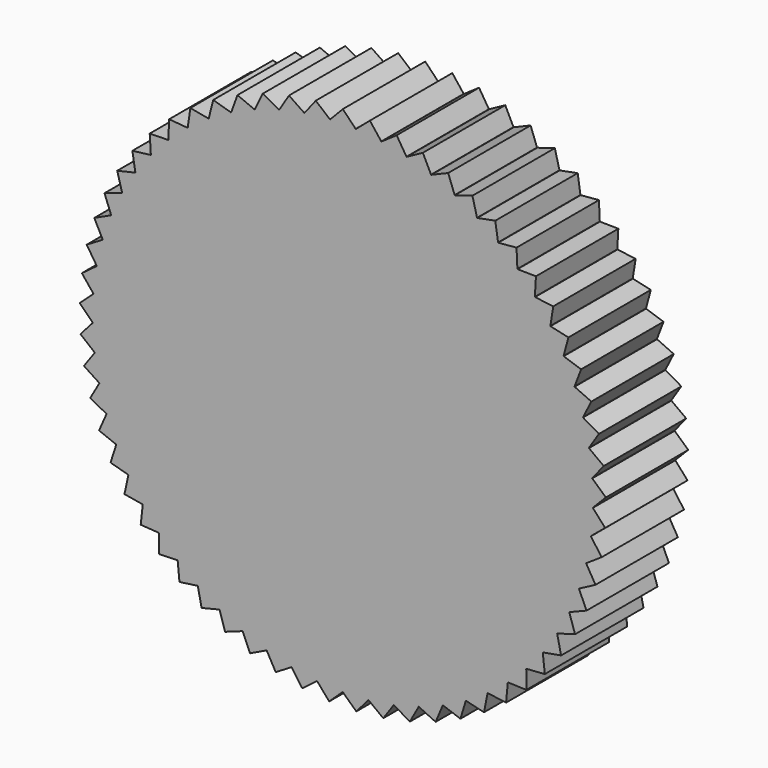
from build123d import *

# Parameters (mm, degrees)
F1_DEPTH = 25.4


with BuildPart() as f1:
    # F0 (on Front) → F1 (new body)
    with BuildSketch(Plane.XZ):
        with BuildLine():
            ThreePointArc((61.665615, -1.639689), (61.666268, -1.614942), (61.666911, -1.590194))
            ThreePointArc((61.666911, -1.590194), (61.682285, -0.795163), (61.68741, 0))
            ThreePointArc((61.68741, 0), (61.642385, 2.356481), (61.507374, 4.709521))
            ThreePointArc((61.507374, 4.709521), (61.505479, 4.734205), (61.503574, 4.758888))
            ThreePointArc((61.503574, 4.758888), (61.180217, 7.894153), (60.697139, 11.00881))
            ThreePointArc((60.697139, 11.00881), (60.692716, 11.033168), (60.688284, 11.057524))
            ThreePointArc((60.688284, 11.057524), (60.044269, 14.142924), (59.2435, 17.191402))
            ThreePointArc((59.2435, 17.191402), (59.236596, 17.215176), (59.229682, 17.238947))
            ThreePointArc((59.229682, 17.238947), (58.271838, 20.241777), (57.161865, 23.191761))
            ThreePointArc((57.161865, 23.191761), (57.152553, 23.2147), (57.143232, 23.237634))
            ThreePointArc((57.143232, 23.237634), (55.88171, 26.126061), (54.4743, 28.946282))
            ThreePointArc((54.4743, 28.946282), (54.462679, 28.968141), (54.451049, 28.989996))
            ThreePointArc((54.451049, 28.989996), (52.899222, 31.733403), (51.209294, 34.393965))
            ThreePointArc((51.209294, 34.393965), (51.195487, 34.414513), (51.181672, 34.435056))
            ThreePointArc((51.181672, 34.435056), (49.35599, 37.004363), (47.401456, 39.477063))
            ThreePointArc((47.401456, 39.477063), (47.38561, 39.496083), (47.369755, 39.515097))
            ThreePointArc((47.369755, 39.515097), (45.289571, 41.883067), (43.091152, 44.141695))
            ThreePointArc((43.091152, 44.141695), (43.073433, 44.158985), (43.055708, 44.176267))
            ThreePointArc((43.055708, 44.176267), (40.743072, 46.317801), (38.32407, 48.338414))
            ThreePointArc((38.32407, 48.338414), (38.304668, 48.35379), (38.28526, 48.369158))
            ThreePointArc((38.28526, 48.369158), (35.764687, 50.261554), (33.150744, 52.022733))
            ThreePointArc((33.150744, 52.022733), (33.129864, 52.036033), (33.108978, 52.049324))
            ThreePointArc((33.108978, 52.049324), (30.407186, 53.672522), (27.626012, 55.155599))
            ThreePointArc((27.626012, 55.155599), (27.603874, 55.166681), (27.581733, 55.177755))
            ThreePointArc((27.581733, 55.177755), (24.727362, 56.514548), (21.808437, 57.703801))
            ThreePointArc((21.808437, 57.703801), (21.785277, 57.712549), (21.762115, 57.721287))
            ThreePointArc((21.762115, 57.721287), (18.785422, 58.757506), (15.759687, 59.640329))
            ThreePointArc((15.759687, 59.640329), (15.735751, 59.646649), (15.711812, 59.652959))
            ThreePointArc((15.711812, 59.652959), (12.644351, 60.37762), (9.54388, 60.944655))
            ThreePointArc((9.54388, 60.944655), (9.519421, 60.94848), (9.494961, 60.952295))
            ThreePointArc((9.494961, 60.952295), (6.369248, 61.357716), (3.226906, 61.602952))
            ThreePointArc((3.226906, 61.602952), (3.202184, 61.604242), (3.177461, 61.605522))
            ThreePointArc((3.177461, 61.605522), (0.026628, 61.687405), (-3.124274, 61.608242))
            ThreePointArc((-3.124274, 61.608242), (-3.148998, 61.606983), (-3.173721, 61.605715))
            ThreePointArc((-3.173721, 61.605715), (-6.316273, 61.363192), (-9.442335, 60.96047))
            ThreePointArc((-9.442335, 60.96047), (-9.466799, 60.956676), (-9.491261, 60.952872))
            ThreePointArc((-9.491261, 60.952872), (-12.592221, 60.388514), (-15.660306, 59.666502))
            ThreePointArc((-15.660306, 59.666502), (-15.68425, 59.660212), (-15.708191, 59.653913))
            ThreePointArc((-15.708191, 59.653913), (-18.734688, 58.773702), (-21.712274, 57.740053))
            ThreePointArc((-21.712274, 57.740053), (-21.735444, 57.731335), (-21.758611, 57.722608))
            ThreePointArc((-21.758611, 57.722608), (-24.678562, 56.535875), (-27.534086, 55.201546))
            ThreePointArc((-27.534086, 55.201546), (-27.556237, 55.190492), (-27.578384, 55.179429))
            ThreePointArc((-27.578384, 55.179429), (-30.360838, 53.698754), (-33.06403, 52.077889))
            ThreePointArc((-33.06403, 52.077889), (-33.084927, 52.064616), (-33.105819, 52.051334))
            ThreePointArc((-33.105819, 52.051334), (-35.721281, 50.292412), (-38.243487, 48.402193))
            ThreePointArc((-38.243487, 48.402193), (-38.262908, 48.386842), (-38.282324, 48.371482))
            ThreePointArc((-38.282324, 48.371482), (-40.70307, 46.352958), (-43.017553, 44.213422))
            ThreePointArc((-43.017553, 44.213422), (-43.035294, 44.196155), (-43.053027, 44.178881))
            ThreePointArc((-43.053027, 44.178881), (-45.253396, 41.922151), (-47.335623, 39.555978))
            ThreePointArc((-47.335623, 39.555978), (-47.351494, 39.536978), (-47.367357, 39.517972))
            ThreePointArc((-47.367357, 39.517972), (-49.324024, 37.04696), (-51.151924, 34.47923))
            ThreePointArc((-51.151924, 34.47923), (-51.165757, 34.458699), (-51.179581, 34.438163))
            ThreePointArc((-51.179581, 34.438163), (-52.871806, 31.779061), (-54.426001, 29.036994))
            ThreePointArc((-54.426001, 29.036994), (-54.437649, 29.01515), (-54.449289, 28.993301))
            ThreePointArc((-54.449289, 28.993301), (-55.859134, 26.174296), (-57.123149, 23.286959))
            ThreePointArc((-57.123149, 23.286959), (-57.13249, 23.264033), (-57.141821, 23.241102))
            ThreePointArc((-57.141821, 23.241102), (-58.254341, 20.292077), (-59.214777, 17.290076))
            ThreePointArc((-59.214777, 17.290076), (-59.221712, 17.266311), (-59.228636, 17.242543))
            ThreePointArc((-59.228636, 17.242543), (-60.032037, 14.194757), (-60.678715, 11.109914))
            ThreePointArc((-60.678715, 11.109914), (-60.683168, 11.085562), (-60.687612, 11.061208))
            ThreePointArc((-60.687612, 11.061208), (-61.173379, 7.946969), (-61.499442, 4.811984))
            ThreePointArc((-61.499442, 4.811984), (-61.501369, 4.787303), (-61.503285, 4.762621))
            ThreePointArc((-61.503285, 4.762621), (-61.666268, 1.614942), (-61.668261, -1.536954))
            ThreePointArc((-61.668261, -1.536954), (-61.667639, -1.561702), (-61.667007, -1.586451))
            ThreePointArc((-61.667007, -1.586451), (-61.505479, -4.734205), (-61.18338, -7.8696))
            ThreePointArc((-61.18338, -7.8696), (-61.180217, -7.894153), (-61.177044, -7.918705))
            ThreePointArc((-61.177044, -7.918705), (-60.692716, -11.033168), (-60.04994, -14.118826))
            ThreePointArc((-60.04994, -14.118826), (-60.044269, -14.142924), (-60.038589, -14.16702))
            ThreePointArc((-60.038589, -14.16702), (-59.236596, -17.215176), (-58.279956, -20.21839))
            ThreePointArc((-58.279956, -20.21839), (-58.271838, -20.241777), (-58.26371, -20.26516))
            ThreePointArc((-58.26371, -20.26516), (-57.152553, -23.2147), (-55.89219, -26.103633))
            ThreePointArc((-55.89219, -26.103633), (-55.88171, -26.126061), (-55.871221, -26.148485))
            ThreePointArc((-55.871221, -26.148485), (-54.462679, -28.968141), (-52.911953, -31.712171))
            ThreePointArc((-52.911953, -31.712171), (-52.899222, -31.733403), (-52.886483, -31.75463))
            ThreePointArc((-52.886483, -31.75463), (-51.195487, -34.414513), (-49.370836, -36.984552))
            ThreePointArc((-49.370836, -36.984552), (-49.35599, -37.004363), (-49.341135, -37.024167))
            ThreePointArc((-49.341135, -37.024167), (-47.38561, -39.496083), (-45.306376, -41.864888))
            ThreePointArc((-45.306376, -41.864888), (-45.289571, -41.883067), (-45.272759, -41.901239))
            ThreePointArc((-45.272759, -41.901239), (-43.073433, -44.158985), (-40.761657, -46.301446))
            ThreePointArc((-40.761657, -46.301446), (-40.743072, -46.317801), (-40.724481, -46.334148))
            ThreePointArc((-40.724481, -46.334148), (-38.304668, -48.35379), (-35.784855, -50.247197))
            ThreePointArc((-35.784855, -50.247197), (-35.764687, -50.261554), (-35.744513, -50.275903))
            ThreePointArc((-35.744513, -50.275903), (-33.129864, -52.036033), (-30.428723, -53.660315))
            ThreePointArc((-30.428723, -53.660315), (-30.407186, -53.672522), (-30.385644, -53.684721))
            ThreePointArc((-30.385644, -53.684721), (-27.603874, -55.166681), (-24.75004, -56.50462))
            ThreePointArc((-24.75004, -56.50462), (-24.727362, -56.514548), (-24.70468, -56.524467))
            ThreePointArc((-24.70468, -56.524467), (-21.785277, -57.712549), (-18.809001, -58.749962))
            ThreePointArc((-18.809001, -58.749962), (-18.785422, -58.757506), (-18.76184, -58.76504))
            ThreePointArc((-18.76184, -58.76504), (-15.735751, -59.646649), (-12.668581, -60.372541))
            ThreePointArc((-12.668581, -60.372541), (-12.644351, -60.37762), (-12.62012, -60.382689))
            ThreePointArc((-12.62012, -60.382689), (-9.519421, -60.94848), (-6.393871, -61.355155))
            ThreePointArc((-6.393871, -61.355155), (-6.369248, -61.357716), (-6.344623, -61.360267))
            ThreePointArc((-6.344623, -61.360267), (-3.202184, -61.604242), (-0.051385, -61.687389))
            ThreePointArc((-0.051385, -61.687389), (-0.026628, -61.687405), (-0.001872, -61.68741))
            ThreePointArc((-0.001872, -61.68741), (3.148998, -61.606983), (6.291647, -61.365722))
            ThreePointArc((6.291647, -61.365722), (6.316273, -61.363192), (6.340899, -61.360652))
            ThreePointArc((6.340899, -61.360652), (9.466799, -60.956676), (12.567985, -60.393562))
            ThreePointArc((12.567985, -60.393562), (12.592221, -60.388514), (12.616455, -60.383455))
            ThreePointArc((12.616455, -60.383455), (15.68425, -59.660212), (18.711099, -58.781216))
            ThreePointArc((18.711099, -58.781216), (18.734688, -58.773702), (18.758273, -58.766179))
            ThreePointArc((18.758273, -58.766179), (21.735444, -57.731335), (24.655871, -56.545774))
            ThreePointArc((24.655871, -56.545774), (24.678562, -56.535875), (24.701249, -56.525967))
            ThreePointArc((24.701249, -56.525967), (27.556237, -55.190492), (30.339285, -53.710934))
            ThreePointArc((30.339285, -53.710934), (30.360838, -53.698754), (30.382385, -53.686565))
            ThreePointArc((30.382385, -53.686565), (33.084927, -52.064616), (35.701095, -50.306743))
            ThreePointArc((35.701095, -50.306743), (35.721281, -50.292412), (35.741461, -50.278072))
            ThreePointArc((35.741461, -50.278072), (38.262908, -48.386842), (40.684464, -46.369289))
            ThreePointArc((40.684464, -46.369289), (40.70307, -46.352958), (40.721669, -46.33662))
            ThreePointArc((40.721669, -46.33662), (43.035294, -44.196155), (45.236568, -41.940309))
            ThreePointArc((45.236568, -41.940309), (45.253396, -41.922151), (45.270216, -41.903987))
            ThreePointArc((45.270216, -41.903987), (47.351494, -39.536978), (49.309153, -37.066751))
            ThreePointArc((49.309153, -37.066751), (49.324024, -37.04696), (49.338888, -37.027162))
            ThreePointArc((49.338888, -37.027162), (51.165757, -34.458699), (52.859049, -31.800277))
            ThreePointArc((52.859049, -31.800277), (52.871806, -31.779061), (52.884555, -31.75784))
            ThreePointArc((52.884555, -31.75784), (54.437649, -29.01515), (55.848625, -26.196711))
            ThreePointArc((55.848625, -26.196711), (55.859134, -26.174296), (55.869634, -26.151877))
            ThreePointArc((55.869634, -26.151877), (57.13249, -23.264033), (58.246192, -20.315454))
            ThreePointArc((58.246192, -20.315454), (58.254341, -20.292077), (58.26248, -20.268697))
            ThreePointArc((58.26248, -20.268697), (59.221712, -17.266311), (60.026336, -14.218848))
            ThreePointArc((60.026336, -14.218848), (60.032037, -14.194757), (60.037729, -14.170664))
            ThreePointArc((60.037729, -14.170664), (60.683168, -11.085562), (61.170185, -7.971519))
            ThreePointArc((61.170185, -7.971519), (61.173379, -7.946969), (61.176563, -7.922419))
            ThreePointArc((61.176563, -7.922419), (61.501369, -4.787303), (61.665615, -1.639689))
        make_face()
        with BuildLine():
            ThreePointArc((61.68741, 0), (61.682285, -0.795163), (61.666911, -1.590194))
            Line((61.666911, -1.590194), (64.868127, 1.664815))
            Line((64.868127, 1.664815), (61.507374, 4.709521))
            ThreePointArc((61.507374, 4.709521), (61.642385, 2.356481), (61.68741, 0))
        make_face()
        with BuildLine():
            Line((64.695496, -5.013814), (61.665615, -1.639689))
            ThreePointArc((61.665615, -1.639689), (61.501369, -4.787303), (61.176563, -7.922419))
            Line((61.176563, -7.922419), (64.695496, -5.013814))
        make_face()
        with BuildLine():
            ThreePointArc((60.697139, 11.00881), (61.180217, 7.894153), (61.503574, 4.758888))
            Line((61.503574, 4.758888), (64.35314, 8.325797))
            Line((64.35314, 8.325797), (60.697139, 11.00881))
        make_face()
        with BuildLine():
            Line((63.837076, -11.639295), (61.170185, -7.971519))
            ThreePointArc((61.170185, -7.971519), (60.683168, -11.085562), (60.037729, -14.170664))
            Line((60.037729, -14.170664), (63.837076, -11.639295))
        make_face()
        with BuildLine():
            ThreePointArc((59.2435, 17.191402), (60.044269, 14.142924), (60.688284, 11.057524))
            Line((60.688284, 11.057524), (63.155993, 14.898523))
            Line((63.155993, 14.898523), (59.2435, 17.191402))
        make_face()
        with BuildLine():
            Line((62.301968, -18.141397), (60.026336, -14.218848))
            ThreePointArc((60.026336, -14.218848), (59.221712, -17.266311), (58.26248, -20.268697))
            Line((58.26248, -20.268697), (62.301968, -18.141397))
        make_face()
        with BuildLine():
            ThreePointArc((57.161865, 23.191761), (58.271838, 20.241777), (59.229682, 17.238947))
            Line((59.229682, 17.238947), (61.289378, 21.313322))
            Line((61.289378, 21.313322), (57.161865, 23.191761))
        make_face()
        with BuildLine():
            Line((60.106443, -24.451196), (58.246192, -20.315454))
            ThreePointArc((58.246192, -20.315454), (57.13249, -23.264033), (55.869634, -26.151877))
            Line((55.869634, -26.151877), (60.106443, -24.451196))
        make_face()
        with BuildLine():
            ThreePointArc((54.4743, 28.946282), (55.88171, 26.126061), (57.143232, 23.237634))
            Line((57.143232, 23.237634), (58.773079, 27.502193))
            Line((58.773079, 27.502193), (54.4743, 28.946282))
        make_face()
        with BuildLine():
            Line((57.273775, -30.501806), (55.848625, -26.196711))
            ThreePointArc((55.848625, -26.196711), (54.437649, -29.01515), (52.884555, -31.75784))
            Line((52.884555, -31.75784), (57.273775, -30.501806))
        make_face()
        with BuildLine():
            ThreePointArc((51.209294, 34.393965), (52.899222, 31.733403), (54.451049, 28.989996))
            Line((54.451049, 28.989996), (55.633772, 33.399535))
            Line((55.633772, 33.399535), (51.209294, 34.393965))
        make_face()
        with BuildLine():
            Line((53.833991, -36.229089), (52.859049, -31.800277))
            ThreePointArc((52.859049, -31.800277), (51.165757, -34.458699), (49.338888, -37.027162))
            Line((49.338888, -37.027162), (53.833991, -36.229089))
        make_face()
        with BuildLine():
            ThreePointArc((47.401456, 39.477063), (49.35599, 37.004363), (51.181672, 34.435056))
            Line((51.181672, 34.435056), (51.904732, 38.942833))
            Line((51.904732, 38.942833), (47.401456, 39.477063))
        make_face()
        with BuildLine():
            Line((49.823553, -41.572335), (49.309153, -37.066751))
            ThreePointArc((49.309153, -37.066751), (47.351494, -39.536978), (45.270216, -41.903987))
            Line((45.270216, -41.903987), (49.823553, -41.572335))
        make_face()
        with BuildLine():
            ThreePointArc((43.091152, 44.141695), (45.289571, 41.883067), (47.369755, 39.515097))
            Line((47.369755, 39.515097), (47.62549, 44.073327))
            Line((47.62549, 44.073327), (43.091152, 44.141695))
        make_face()
        with BuildLine():
            Line((45.284973, -46.474904), (45.236568, -41.940309))
            ThreePointArc((45.236568, -41.940309), (43.035294, -44.196155), (40.721669, -46.33662))
            Line((40.721669, -46.33662), (45.284973, -46.474904))
        make_face()
        with BuildLine():
            ThreePointArc((38.32407, 48.338414), (40.743072, 46.317801), (43.055708, 44.176267))
            Line((43.055708, 44.176267), (42.841405, 48.736634))
            Line((42.841405, 48.736634), (38.32407, 48.338414))
        make_face()
        with BuildLine():
            Line((40.266361, -50.884827), (40.684464, -46.369289))
            ThreePointArc((40.684464, -46.369289), (38.262908, -48.386842), (35.741461, -50.278072))
            Line((35.741461, -50.278072), (40.266361, -50.884827))
        make_face()
        with BuildLine():
            ThreePointArc((33.150744, 52.022733), (35.764687, 50.261554), (38.28526, 48.369158))
            Line((38.28526, 48.369158), (37.603191, 52.88332))
            Line((37.603191, 52.88332), (33.150744, 52.022733))
        make_face()
        with BuildLine():
            Line((34.820915, -54.755359), (35.701095, -50.306743))
            ThreePointArc((35.701095, -50.306743), (33.084927, -52.064616), (30.382385, -53.686565))
            Line((30.382385, -53.686565), (34.820915, -54.755359))
        make_face()
        with BuildLine():
            ThreePointArc((27.626012, 55.155599), (30.407186, 53.672522), (33.108978, 52.049324))
            Line((33.108978, 52.049324), (31.966374, 56.469429))
            Line((31.966374, 56.469429), (27.626012, 55.155599))
        make_face()
        with BuildLine():
            Line((29.00636, -58.04547), (30.339285, -53.710934))
            ThreePointArc((30.339285, -53.710934), (27.556237, -55.190492), (24.701249, -56.525967))
            Line((24.701249, -56.525967), (29.00636, -58.04547))
        make_face()
        with BuildLine():
            ThreePointArc((21.808437, 57.703801), (24.727362, 56.514548), (27.581733, 55.177755))
            Line((27.581733, 55.177755), (25.990705, 59.456948))
            Line((25.990705, 59.456948), (21.808437, 57.703801))
        make_face()
        with BuildLine():
            Line((22.884329, -60.720285), (24.655871, -56.545774))
            ThreePointArc((24.655871, -56.545774), (21.735444, -57.731335), (18.758273, -58.766179))
            Line((18.758273, -58.766179), (22.884329, -60.720285))
        make_face()
        with BuildLine():
            ThreePointArc((15.759687, 59.640329), (18.785422, 58.757506), (21.762115, 57.721287))
            Line((21.762115, 57.721287), (19.739529, 61.814209))
            Line((19.739529, 61.814209), (15.759687, 59.640329))
        make_face()
        with BuildLine():
            Line((16.519719, -62.751449), (18.711099, -58.781216))
            ThreePointArc((18.711099, -58.781216), (15.68425, -59.660212), (12.616455, -60.383455))
            Line((12.616455, -60.383455), (16.519719, -62.751449))
        make_face()
        with BuildLine():
            ThreePointArc((9.54388, 60.944655), (12.644351, 60.37762), (15.711812, 59.652959))
            Line((15.711812, 59.652959), (13.279108, 63.516224))
            Line((13.279108, 63.516224), (9.54388, 60.944655))
        make_face()
        with BuildLine():
            Line((9.979996, -64.117433), (12.567985, -60.393562))
            ThreePointArc((12.567985, -60.393562), (9.466799, -60.956676), (6.340899, -61.360652))
            Line((6.340899, -61.360652), (9.979996, -64.117433))
        make_face()
        with BuildLine():
            ThreePointArc((3.226906, 61.602952), (6.369248, 61.357716), (9.494961, 60.952295))
            Line((9.494961, 60.952295), (6.677926, 64.544952))
            Line((6.677926, 64.544952), (3.226906, 61.602952))
        make_face()
        with BuildLine():
            Line((3.334482, -64.803755), (6.291647, -61.365722))
            ThreePointArc((6.291647, -61.365722), (3.148998, -61.606983), (-0.001872, -61.68741))
            Line((-0.001872, -61.68741), (3.334482, -64.803755))
        make_face()
        with BuildLine():
            ThreePointArc((-3.124274, 61.608242), (0.026628, 61.687405), (3.177461, 61.605522))
            Line((3.177461, 61.605522), (0.005955, 64.889486))
            Line((0.005955, 64.889486), (-3.124274, 61.608242))
        make_face()
        with BuildLine():
            Line((-3.346377, -64.803142), (-0.051385, -61.687389))
            ThreePointArc((-0.051385, -61.687389), (-3.202184, -61.604242), (-6.344623, -61.360267))
            Line((-6.344623, -61.360267), (-3.346377, -64.803142))
        make_face()
        with BuildLine():
            ThreePointArc((-9.442335, 60.96047), (-6.316273, 61.363192), (-3.173721, 61.605715))
            Line((-3.173721, 61.605715), (-6.666078, 64.546176))
            Line((-6.666078, 64.546176), (-9.442335, 60.96047))
        make_face()
        with BuildLine():
            Line((-9.991765, -64.1156), (-6.393871, -61.355155))
            ThreePointArc((-6.393871, -61.355155), (-9.519421, -60.94848), (-12.62012, -60.382689))
            Line((-12.62012, -60.382689), (-9.991765, -64.1156))
        make_face()
        with BuildLine():
            ThreePointArc((-15.660306, 59.666502), (-12.592221, 60.388514), (-9.491261, 60.952872))
            Line((-9.491261, 60.952872), (-13.267449, 63.518661))
            Line((-13.267449, 63.518661), (-15.660306, 59.666502))
        make_face()
        with BuildLine():
            Line((-16.531237, -62.748416), (-12.668581, -60.372541))
            ThreePointArc((-12.668581, -60.372541), (-15.735751, -59.646649), (-18.76184, -58.76504))
            Line((-18.76184, -58.76504), (-16.531237, -62.748416))
        make_face()
        with BuildLine():
            ThreePointArc((-21.712274, 57.740053), (-18.734688, 58.773702), (-15.708191, 59.653913))
            Line((-15.708191, 59.653913), (-19.728182, 61.817832))
            Line((-19.728182, 61.817832), (-21.712274, 57.740053))
        make_face()
        with BuildLine():
            Line((-22.895474, -60.716083), (-18.809001, -58.749962))
            ThreePointArc((-18.809001, -58.749962), (-21.785277, -57.712549), (-24.70468, -56.524467))
            Line((-24.70468, -56.524467), (-22.895474, -60.716083))
        make_face()
        with BuildLine():
            ThreePointArc((-27.534086, 55.201546), (-24.678562, 56.535875), (-21.758611, 57.722608))
            Line((-21.758611, 57.722608), (-25.979791, 59.461718))
            Line((-25.979791, 59.461718), (-27.534086, 55.201546))
        make_face()
        with BuildLine():
            Line((-29.017014, -58.040145), (-24.75004, -56.50462))
            ThreePointArc((-24.75004, -56.50462), (-27.603874, -55.166681), (-30.385644, -53.684721))
            Line((-30.385644, -53.684721), (-29.017014, -58.040145))
        make_face()
        with BuildLine():
            ThreePointArc((-33.06403, 52.077889), (-30.360838, 53.698754), (-27.578384, 55.179429))
            Line((-27.578384, 55.179429), (-31.956008, 56.475296))
            Line((-31.956008, 56.475296), (-33.06403, 52.077889))
        make_face()
        with BuildLine():
            Line((-34.830965, -54.748966), (-30.428723, -53.660315))
            ThreePointArc((-30.428723, -53.660315), (-33.129864, -52.036033), (-35.744513, -50.275903))
            Line((-35.744513, -50.275903), (-34.830965, -54.748966))
        make_face()
        with BuildLine():
            ThreePointArc((-38.243487, 48.402193), (-35.721281, 50.292412), (-33.105819, 52.051334))
            Line((-33.105819, 52.051334), (-37.593484, 52.890221))
            Line((-37.593484, 52.890221), (-38.243487, 48.402193))
        make_face()
        with BuildLine():
            Line((-40.2757, -50.877436), (-35.784855, -50.247197))
            ThreePointArc((-35.784855, -50.247197), (-38.304668, -48.35379), (-40.724481, -46.334148))
            Line((-40.724481, -46.334148), (-40.2757, -50.877436))
        make_face()
        with BuildLine():
            ThreePointArc((-43.017553, 44.213422), (-40.70307, 46.352958), (-38.282324, 48.371482))
            Line((-38.282324, 48.371482), (-42.832459, 48.744497))
            Line((-42.832459, 48.744497), (-43.017553, 44.213422))
        make_face()
        with BuildLine():
            Line((-45.293503, -46.466591), (-40.761657, -46.301446))
            ThreePointArc((-40.761657, -46.301446), (-43.073433, -44.158985), (-45.272759, -41.901239))
            Line((-45.272759, -41.901239), (-45.293503, -46.466591))
        make_face()
        with BuildLine():
            ThreePointArc((-47.335623, 39.555978), (-45.253396, 41.922151), (-43.053027, 44.178881))
            Line((-43.053027, 44.178881), (-47.617399, 44.082069))
            Line((-47.617399, 44.082069), (-47.335623, 39.555978))
        make_face()
        with BuildLine():
            Line((-49.831183, -41.563189), (-45.306376, -41.864888))
            ThreePointArc((-45.306376, -41.864888), (-47.38561, -39.496083), (-49.341135, -37.024167))
            Line((-49.341135, -37.024167), (-49.831183, -41.563189))
        make_face()
        with BuildLine():
            ThreePointArc((-51.151924, 34.47923), (-49.324024, 37.04696), (-47.367357, 39.517972))
            Line((-47.367357, 39.517972), (-51.897583, 38.95236))
            Line((-51.897583, 38.95236), (-51.151924, 34.47923))
        make_face()
        with BuildLine():
            Line((-53.84064, -36.219207), (-49.370836, -36.984552))
            ThreePointArc((-49.370836, -36.984552), (-51.195487, -34.414513), (-52.886483, -31.75463))
            Line((-52.886483, -31.75463), (-53.84064, -36.219207))
        make_face()
        with BuildLine():
            ThreePointArc((-54.426001, 29.036994), (-52.871806, 31.779061), (-51.179581, 34.438163))
            Line((-51.179581, 34.438163), (-55.62764, 33.409746))
            Line((-55.62764, 33.409746), (-54.426001, 29.036994))
        make_face()
        with BuildLine():
            Line((-57.279373, -30.491293), (-52.911953, -31.712171))
            ThreePointArc((-52.911953, -31.712171), (-54.462679, -28.968141), (-55.871221, -26.148485))
            Line((-55.871221, -26.148485), (-57.279373, -30.491293))
        make_face()
        with BuildLine():
            ThreePointArc((-57.123149, 23.286959), (-55.859134, 26.174296), (-54.449289, 28.993301))
            Line((-54.449289, 28.993301), (-58.76803, 27.512981))
            Line((-58.76803, 27.512981), (-57.123149, 23.286959))
        make_face()
        with BuildLine():
            Line((-60.11093, -24.440163), (-55.89219, -26.103633))
            ThreePointArc((-55.89219, -26.103633), (-57.152553, -23.2147), (-58.26371, -20.26516))
            Line((-58.26371, -20.26516), (-60.11093, -24.440163))
        make_face()
        with BuildLine():
            ThreePointArc((-59.214777, 17.290076), (-58.254341, 20.292077), (-57.141821, 23.241102))
            Line((-57.141821, 23.241102), (-61.285464, 21.324571))
            Line((-61.285464, 21.324571), (-59.214777, 17.290076))
        make_face()
        with BuildLine():
            Line((-62.305297, -18.129961), (-58.279956, -20.21839))
            ThreePointArc((-58.279956, -20.21839), (-59.236596, -17.215176), (-60.038589, -14.16702))
            Line((-60.038589, -14.16702), (-62.305297, -18.129961))
        make_face()
        with BuildLine():
            ThreePointArc((-60.678715, 11.109914), (-60.032037, 14.194757), (-59.228636, 17.242543))
            Line((-59.228636, 17.242543), (-63.153257, 14.910116))
            Line((-63.153257, 14.910116), (-60.678715, 11.109914))
        make_face()
        with BuildLine():
            Line((-63.839211, -11.627577), (-60.04994, -14.118826))
            ThreePointArc((-60.04994, -14.118826), (-60.692716, -11.033168), (-61.177044, -7.918705))
            Line((-61.177044, -7.918705), (-63.839211, -11.627577))
        make_face()
        with BuildLine():
            ThreePointArc((-61.499442, 4.811984), (-61.173379, 7.946969), (-60.687612, 11.061208))
            Line((-60.687612, 11.061208), (-64.35161, 8.337609))
            Line((-64.35161, 8.337609), (-61.499442, 4.811984))
        make_face()
        with BuildLine():
            Line((-64.696415, -5.001938), (-61.18338, -7.8696))
            ThreePointArc((-61.18338, -7.8696), (-61.505479, -4.734205), (-61.667007, -1.586451))
            Line((-61.667007, -1.586451), (-64.696415, -5.001938))
        make_face()
        with BuildLine():
            ThreePointArc((-61.668261, -1.536954), (-61.666268, 1.614942), (-61.503285, 4.762621))
            Line((-61.503285, 4.762621), (-64.86782, 1.676722))
            Line((-64.86782, 1.676722), (-61.668261, -1.536954))
        make_face()
    extrude(amount=F1_DEPTH)


solid = f1.part
